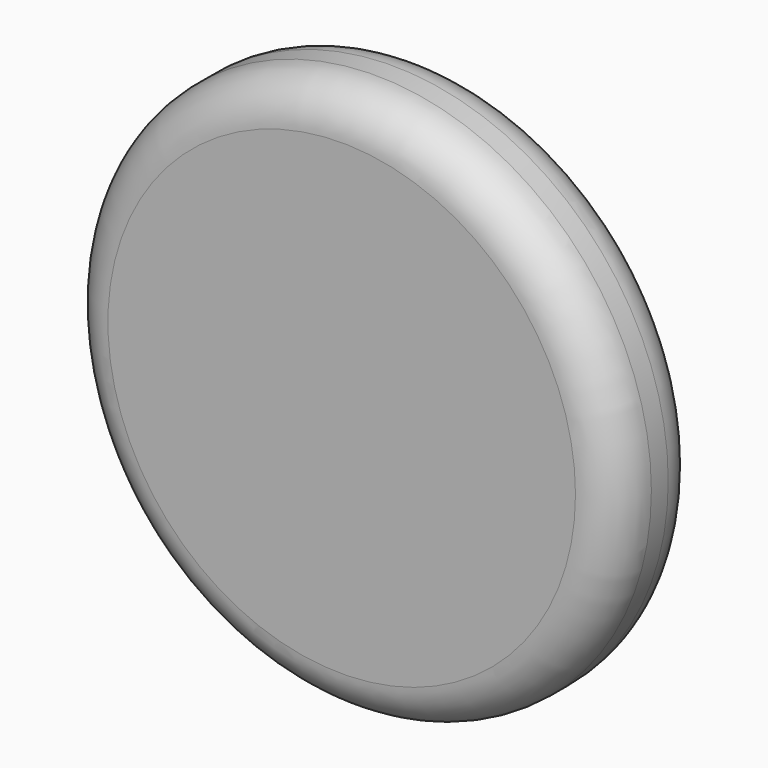
from build123d import *

# Parameters (mm, degrees)
F0_R     = 19.1692141119
F1_DEPTH = 12.7
F2_R     = 5.08
F4_R     = 33.249521813
F5_DEPTH = 12.7
F6_R     = 5.08


with BuildPart() as f1:
    # F0 (on Front) → F1 (new body)
    with BuildSketch(Plane.XZ):
        with Locations((-138.7361735106, 32.7932424843)):
            Circle(F0_R)
    extrude(amount=F1_DEPTH)

    # F2
    f2_edges = [f1.edges().sort_by_distance(p)[0] for p in [
        (-157.905388, -12.7, 32.793242),
        (-157.905388, 0, 32.793242),
    ]]
    fillet(f2_edges, radius=F2_R)


with BuildPart() as f5:
    # F4 (on Front) → F5 (new body)
    with BuildSketch(Plane.XZ):
        with Locations((-43.3901064098, 44.0216623247)):
            Circle(F4_R)
    extrude(amount=F5_DEPTH)

    # F6
    f6_edges = [f5.edges().sort_by_distance(p)[0] for p in [
        (-76.639628, 0, 44.021662),
        (-76.639628, -12.7, 44.021662),
    ]]
    fillet(f6_edges, radius=F6_R)


solid = f5.part
